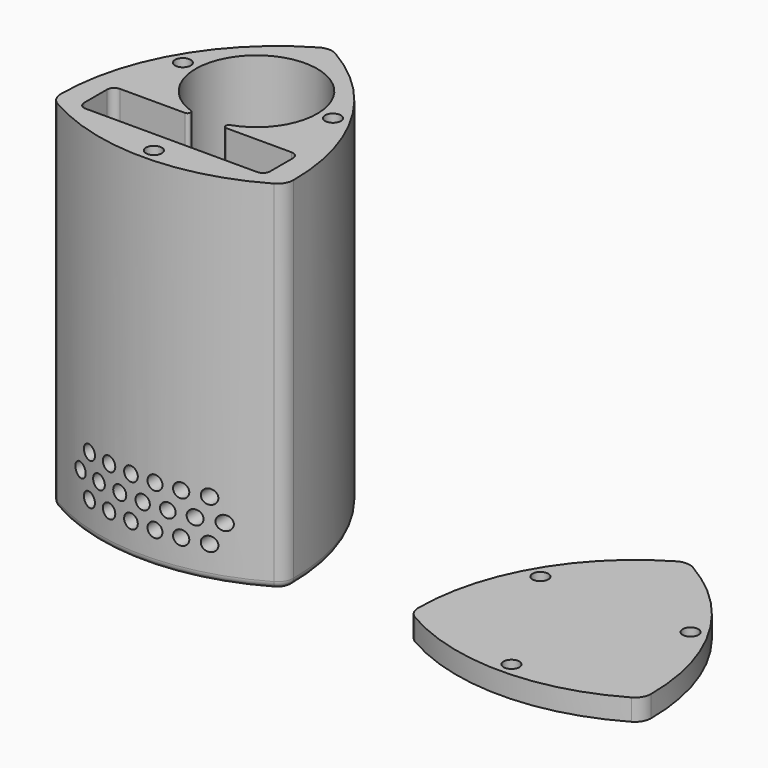
from build123d import *

# Parameters (mm, degrees)
PAD_DEPTH       = 50
POCKET_DEPTH    = 48
SKETCH_R        = 1
POCKET001_DEPTH = 8
SKETCH004_R     = 1.1
POCKET002_DEPTH = 1.2
FILLET_R        = 1
PAD001_DEPTH    = 3
SKETCH006_R     = 1.1
POCKET003_DEPTH = 1.2


with BuildPart() as body:
    # Sketch002 → Pad (new body)
    with BuildSketch(Plane.XY):
        with BuildLine():
            ThreePointArc((-1.141028, 26.22503), (-12.22503, 15.141028), (-16.282057, 0))
            ThreePointArc((-16.282057, 0), (-15.976319, -1.141028), (-15.141028, -1.976319))
            ThreePointArc((-15.141028, -1.976319), (0, -6.033345), (15.141028, -1.976319))
            ThreePointArc((15.141028, -1.976319), (15.976319, -1.141028), (16.282057, 0))
            ThreePointArc((16.282057, 0), (12.22503, 15.141028), (1.141028, 26.22503))
            ThreePointArc((1.141028, 26.22503), (0, 26.530768), (-1.141028, 26.22503))
        make_face()
    extrude(amount=PAD_DEPTH)

    # Sketch003 (on Face8 of Pad) → Pocket (cut)
    with BuildSketch(Plane.XY.offset(50)):
        with BuildLine():
            Line((-13, 4), (-13, 0))
            ThreePointArc((-13, 0), (-12.707107, -0.707107), (-12, -1))
            Line((-12, -1), (12, -1))
            ThreePointArc((12, -1), (12.707107, -0.707107), (13, 0))
            Line((13, 0), (13, 4))
            ThreePointArc((13, 4), (12.707107, 4.707107), (12, 5))
            Line((12, 5), (2.900795, 5))
            ThreePointArc((2.761294, 5.835554), (2.477235, 5.358706), (2.900795, 5))
            ThreePointArc((2.761294, 5.835554), (0, 22.374538), (-2.761294, 5.835554))
            ThreePointArc((-2.900795, 5), (-2.477235, 5.358706), (-2.761294, 5.835554))
            Line((-12, 5), (-2.900795, 5))
            ThreePointArc((-12, 5), (-12.707107, 4.707107), (-13, 4))
        make_face()
    extrude(amount=-POCKET_DEPTH, mode=Mode.SUBTRACT)

    # Sketch → Pocket001 (cut)
    with BuildSketch(Plane.XZ):
        with Locations((-8.400179, 10.42871)):
            Circle(SKETCH_R)
        with Locations((-5.040107, 10.42871)):
            Circle(SKETCH_R)
        with Locations((-1.680036, 10.42871)):
            Circle(SKETCH_R)
        with Locations((1.680036, 10.42871)):
            Circle(SKETCH_R)
        with Locations((5.040107, 10.42871)):
            Circle(SKETCH_R)
        with Locations((8.400179, 10.42871)):
            Circle(SKETCH_R)
        with Locations((-8.400179, 4.608896)):
            Circle(SKETCH_R)
        with Locations((-5.040107, 4.608896)):
            Circle(SKETCH_R)
        with Locations((-1.680036, 4.608896)):
            Circle(SKETCH_R)
        with Locations((1.680036, 4.608896)):
            Circle(SKETCH_R)
        with Locations((5.040107, 4.608896)):
            Circle(SKETCH_R)
        with Locations((8.400179, 4.608896)):
            Circle(SKETCH_R)
        with Locations((-10.080214, 7.518803)):
            Circle(SKETCH_R)
        with Locations((-6.720143, 7.518803)):
            Circle(SKETCH_R)
        with Locations((-3.360071, 7.518803)):
            Circle(SKETCH_R)
        with Locations((0, 7.518803)):
            Circle(SKETCH_R)
        with Locations((3.360071, 7.518803)):
            Circle(SKETCH_R)
        with Locations((6.720143, 7.518803)):
            Circle(SKETCH_R)
        with Locations((10.080214, 7.518803)):
            Circle(SKETCH_R)
    extrude(amount=POCKET001_DEPTH, mode=Mode.SUBTRACT)

    # Sketch004 (on Face5 of Pocket001) → Pocket002 (cut)
    with BuildSketch(Plane.XY.offset(50)):
        with Locations((-10.497951, 14.123624)):
            Circle(SKETCH004_R)
        with Locations((0, -4.059361)):
            Circle(SKETCH004_R)
        with Locations((10.497951, 14.123624)):
            Circle(SKETCH004_R)
    extrude(amount=-POCKET002_DEPTH, mode=Mode.SUBTRACT)

    # Fillet
    fillet_edges = [body.edges().sort_by_distance(p)[0] for p in [
        (-12.22503, 15.141028, 0),
        (-15.976319, -1.141028, 0),
        (0, -6.033345, 0),
        (15.976319, -1.141028, 0),
        (12.22503, 15.141028, 0),
        (0, 26.530768, 0),
    ]]
    fillet(fillet_edges, radius=FILLET_R)


with BuildPart() as lid:
    # Sketch005 → Pad001 (new body)
    with BuildSketch(Plane.XY):
        with BuildLine():
            ThreePointArc((-1.141028, 26.22503), (-12.22503, 15.141028), (-16.282057, 0))
            ThreePointArc((-16.282057, 0), (-15.976319, -1.141028), (-15.141028, -1.976319))
            ThreePointArc((-15.141028, -1.976319), (0, -6.033345), (15.141028, -1.976319))
            ThreePointArc((15.141028, -1.976319), (15.976319, -1.141028), (16.282057, 0))
            ThreePointArc((16.282057, 0), (12.22503, 15.141028), (1.141028, 26.22503))
            ThreePointArc((1.141028, 26.22503), (0, 26.530768), (-1.141028, 26.22503))
        make_face()
    extrude(amount=PAD001_DEPTH)

    # Sketch006 (on Face8 of Pad001) → Pocket003 (cut)
    with BuildSketch(Plane.XY.offset(3)):
        with Locations((-10.497951, 14.123624)):
            Circle(SKETCH006_R)
        with Locations((0, -4.059361)):
            Circle(SKETCH006_R)
        with Locations((10.497951, 14.123624)):
            Circle(SKETCH006_R)
    extrude(amount=-POCKET003_DEPTH, mode=Mode.SUBTRACT)


with BuildPart() as lid_1:
    # Body001 placement: moved
    add(lid.part.moved(Location((50, 0, 0))))


solid = Compound([body.part, lid_1.part])
